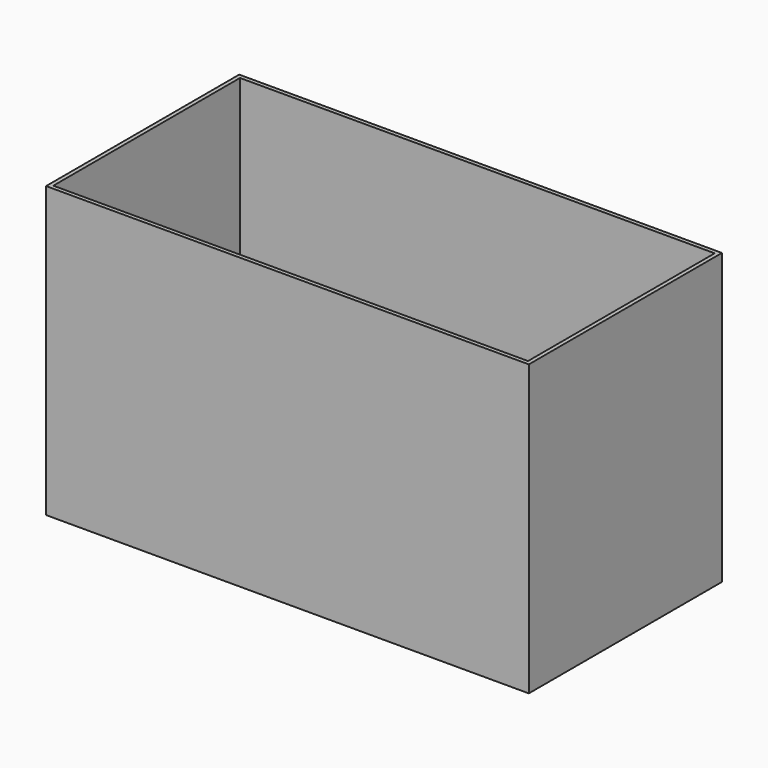
from build123d import *

# Parameters (mm, degrees)
F0_W     = 762
F0_H     = 381
F1_DEPTH = 431.8
F2_DEPTH = 25.4
F3_T     = -6.35


with BuildPart() as f1:
    # F0 (on Top) → F1 (new body)
    with BuildSketch(Plane.XY):
        with Locations((-381, -190.5)):
            Rectangle(F0_W, F0_H)
    extrude(amount=F1_DEPTH)

    # F2 (add): a face of the model
    f2_faces = [f1.faces().sort_by_distance(p)[0] for p in [
        (-381, -190.5, 431.8),
    ]]
    extrude(f2_faces, amount=F2_DEPTH)

    # F3
    f3_openings = [f1.faces().sort_by_distance(p)[0] for p in [
        (-381, -190.5, 457.2),
    ]]
    offset(amount=F3_T, openings=f3_openings)


solid = f1.part
